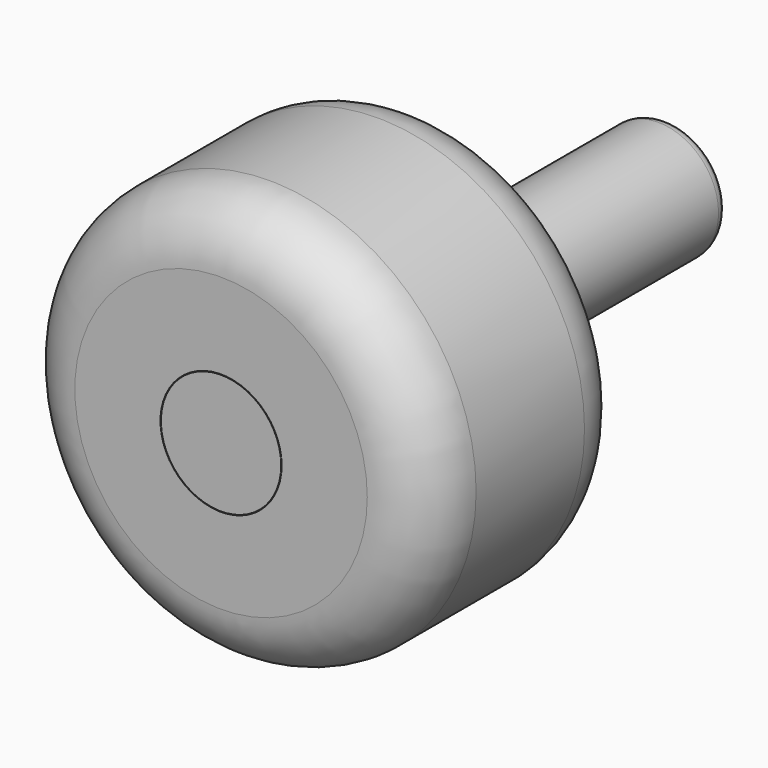
from build123d import *

# Parameters (mm, degrees)
F0_R     = 4.974125
F1_DEPTH = 25
F2_R     = 17.092044
F2_R_2   = 5.008881
F2_R_3   = 4.974125
F3_DEPTH = 21.2
F4_R     = 5
F5_R     = 5
F6_R     = 1


with BuildPart() as f1:
    # F0 (on Front) → F1 (new body)
    with BuildSketch(Plane.XZ):
        Circle(F0_R)
    extrude(amount=F1_DEPTH)

    # F2 (on face) → F3 (join)
    with BuildSketch(Plane.XZ.offset(25)):
        Circle(F2_R)
        Circle(F2_R_2, mode=Mode.SUBTRACT)
        Circle(F2_R_3)
    extrude(amount=F3_DEPTH)

    # F4
    f4_edges = [f1.edges().sort_by_distance(p)[0] for p in [
        (-17.092044, -46.2, 0),
    ]]
    fillet(f4_edges, radius=F4_R)

    # F5
    f5_edges = [f1.edges().sort_by_distance(p)[0] for p in [
        (-17.092044, -25, 0),
    ]]
    fillet(f5_edges, radius=F5_R)

    # F6
    f6_edges = [f1.edges().sort_by_distance(p)[0] for p in [
        (-4.974125, 0, 0),
    ]]
    fillet(f6_edges, radius=F6_R)


solid = f1.part
